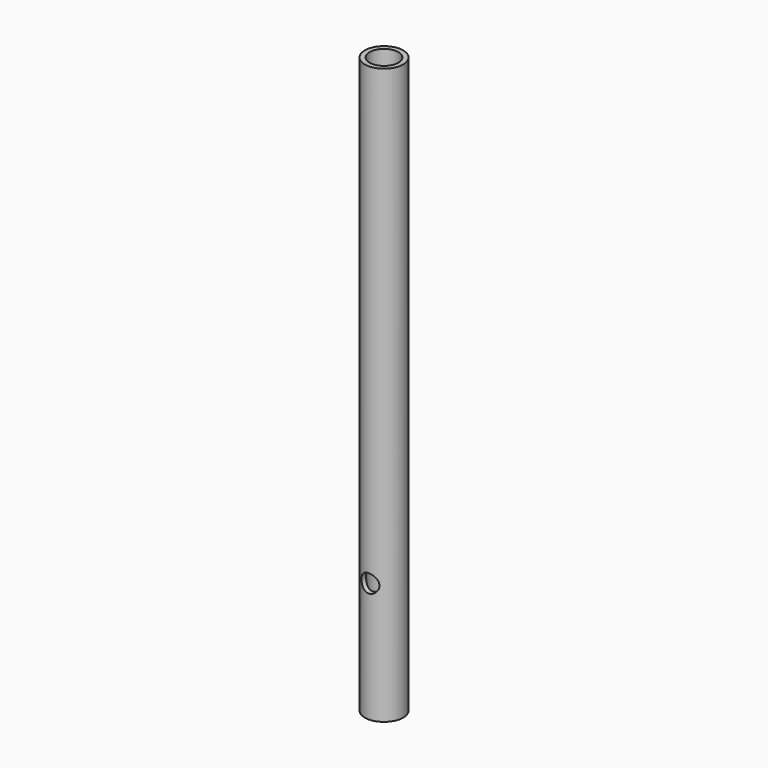
from build123d import *

# Parameters (mm, degrees)
F0_R     = 10.16
F0_R_2   = 7.62
F1_DEPTH = 304.8
F2_R     = 4.7625
F3_DEPTH = 10.161


with BuildPart() as f1:
    # F0 (on Top) → F1 (new body)
    with BuildSketch(Plane.XY):
        Circle(F0_R)
        Circle(F0_R_2, mode=Mode.SUBTRACT)
    extrude(amount=F1_DEPTH)

    # F2 (on Front) → F3 (cut, through all)
    with BuildSketch(Plane.XZ):
        with Locations((0, 63.5)):
            Circle(F2_R)
    extrude(amount=F3_DEPTH, mode=Mode.SUBTRACT)


solid = f1.part
